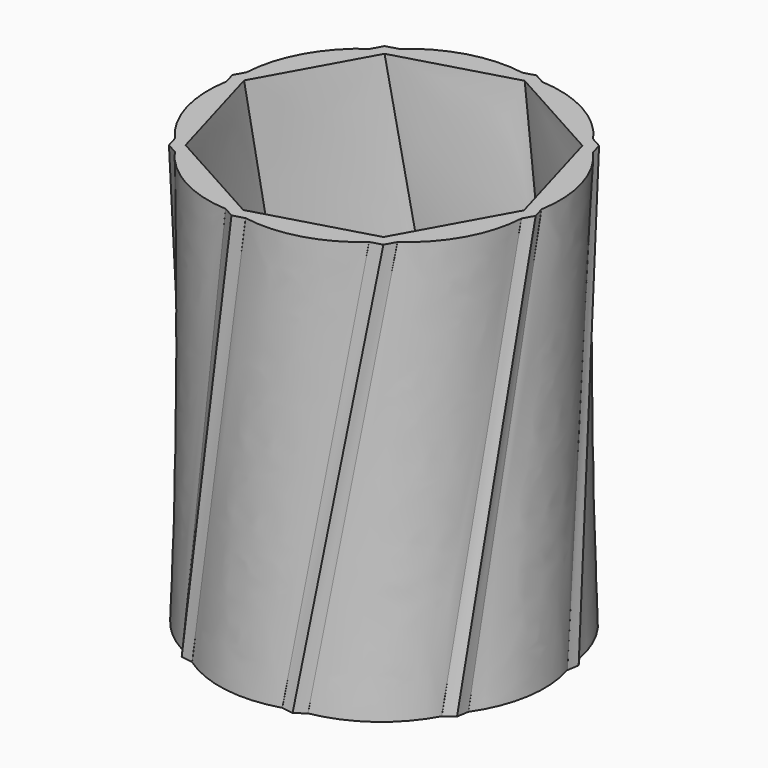
from build123d import *

# Parameters (mm, degrees)
F5_COUNT = 8
F5_ANGLE = 315


with BuildPart() as f4:
    # F0 (on Top) → F4 section 0
    with BuildSketch(Plane.XY):
        with BuildLine():
            Line((7.6595910871, -31.9045038767), (8.3013966604, -34.5778173951))
            Line((8.3013966604, -34.5778173951), (10.3562999417, -33.0848430134))
            ThreePointArc((10.3562999417, -33.0848430134), (20.8037642272, -28.6339296223), (28.2652797493, -20.0732096686))
            Line((28.2652797493, -20.0732096686), (30.3201830306, -18.5802352869))
            Line((30.3201830306, -18.5802352869), (27.9760398404, -17.1437422427))
            Line((27.9760398404, -17.1437422427), (7.6595910871, -31.9045038767))
        make_face()
    # F3 (on plane+point) → F4 section 1
    with BuildSketch(Plane.XY.offset(89.0693292022)):
        with BuildLine():
            Line((35.3317647247, -4.0255488774), (32.6001613042, -3.7143217658))
            Line((32.6001613042, -3.7143217658), (20.4253730178, -25.6782172341))
            Line((20.4253730178, -25.6782172341), (22.1368375189, -27.8298233373))
            Line((22.1368375189, -27.8298233373), (23.3682541263, -25.6082893765))
            ThreePointArc((23.3682541263, -25.6082893765), (30.9558350826, -17.1591027148), (34.1003481172, -6.2470828382))
            Line((34.1003481172, -6.2470828382), (35.3317647247, -4.0255488774))
        make_face()
    loft()

    # F5: F4 ×8 about axis
    f5_axis = Axis((0, 0, 44.5346646011), (0, 0, 1))


with BuildPart() as f4_1:
    add(f4.part)
    for i in range(1, F5_COUNT):
        add(f4.part.rotate(f5_axis, i * F5_ANGLE / (F5_COUNT - 1)))


solid = f4_1.part
